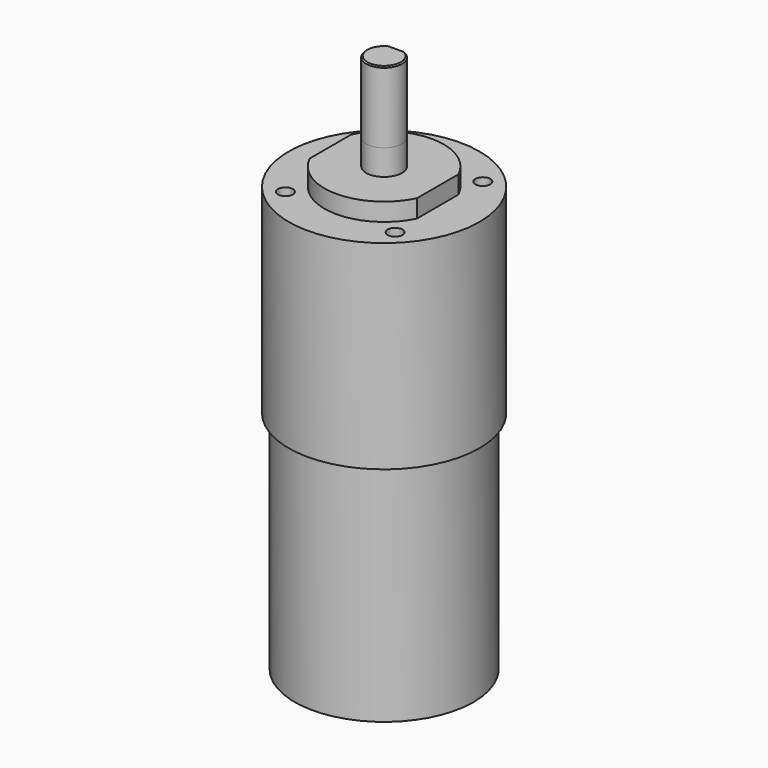
from build123d import *

# Parameters (mm, degrees)
F0_R      = 15
F1_DEPTH  = 37.8
F2_R      = 16
F3_DEPTH  = 33.4
F5_DEPTH  = 3
F6_R      = 3
F7_DEPTH  = 4.3
F9_DEPTH  = 12
F10_SIZE  = 0.2
F11_R     = 1.25
F12_DEPTH = 5.5


with BuildPart() as f1:
    # F0 (on Top) → F1 (new body)
    with BuildSketch(Plane.XY):
        Circle(F0_R)
    extrude(amount=F1_DEPTH)

    # F2 (on face) → F3 (join)
    with BuildSketch(Plane.XY.offset(37.8)):
        Circle(F2_R)
    extrude(amount=F3_DEPTH)

    # F4 (on face) → F5 (join)
    with BuildSketch(Plane.XY.offset(71.2)):
        with BuildLine():
            Line((-9, 4.3588989435), (-9, -4.3588989435))
            ThreePointArc((-9, -4.3588989435), (0, -10), (9, -4.3588989435))
            Line((9, -4.3588989435), (9, 4.3588989435))
            ThreePointArc((9, 4.3588989435), (0, 10), (-9, 4.3588989435))
        make_face()
    extrude(amount=F5_DEPTH)

    # F6 (on face) → F7 (join)
    with BuildSketch(Plane.XY.offset(74.2)):
        Circle(F6_R)
    extrude(amount=F7_DEPTH)

    # F8 (on face) → F9 (join)
    with BuildSketch(Plane.XY.offset(78.5)):
        with BuildLine():
            Line((1.6583123952, 2.5), (-1.6583123952, 2.5))
            ThreePointArc((-1.6583123952, 2.5), (0, -3), (1.6583123952, 2.5))
        make_face()
    extrude(amount=F9_DEPTH)

    # F10
    f10_edges = [f1.edges().sort_by_distance(p)[0] for p in [
        (0, -3, 90.5),
    ]]
    chamfer(f10_edges, length=F10_SIZE)

    # F11 (on face) → F12 (cut)
    with BuildSketch(Plane.XY.offset(71.2)):
        with Locations((9.1923881554, -9.1923881554)):
            Circle(F11_R)
        with Locations((-9.1923881554, -9.1923881554)):
            Circle(F11_R)
        with Locations((9.1923881554, 9.1923881554)):
            Circle(F11_R)
        with Locations((-9.1923881554, 9.1923881554)):
            Circle(F11_R)
    extrude(amount=-F12_DEPTH, mode=Mode.SUBTRACT)


solid = f1.part
